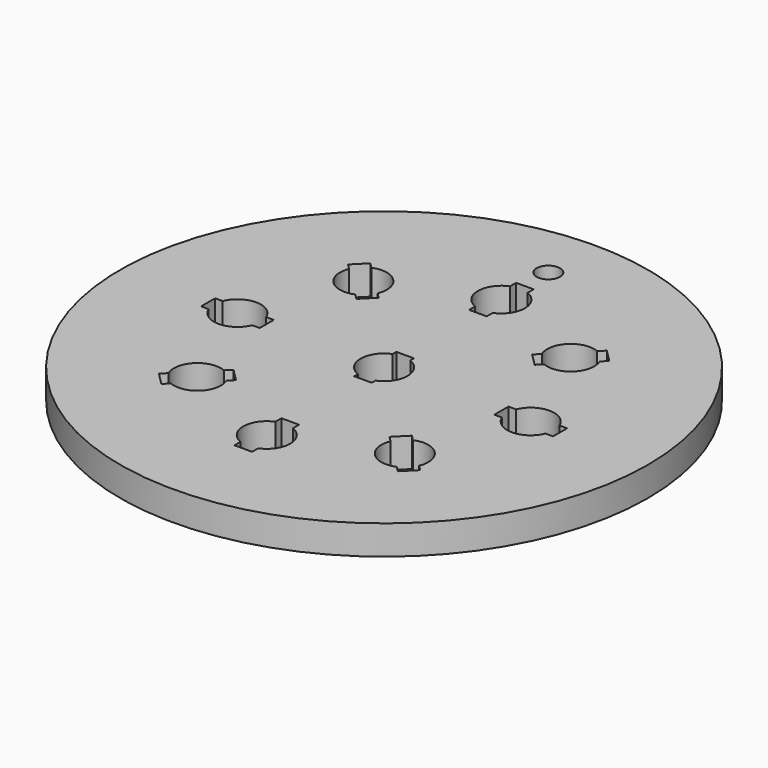
from build123d import *

# Parameters (mm, degrees)
F0_R     = 45
F0_R_2   = 2
F1_DEPTH = 2.5


with BuildPart() as f1:
    # F0 (on Top) → F1 (new body, symmetric)
    with BuildSketch(Plane.XY):
        Circle(F0_R)
        with BuildLine():
            Line((-15.202796, -13.081475), (-13.081475, -15.202796))
            Line((-13.081475, -15.202796), (-13.994987, -16.116308))
            ThreePointArc((-13.994987, -16.116308), (-13.757802, -16.881029), (-13.67767, -17.67767))
            ThreePointArc((-13.67767, -17.67767), (-15.469214, -21.012744), (-19.239031, -21.360352))
            Line((-19.239031, -21.360352), (-20.152543, -22.273864))
            Line((-20.152543, -22.273864), (-22.273864, -20.152543))
            Line((-22.273864, -20.152543), (-21.360352, -19.239031))
            ThreePointArc((-21.360352, -19.239031), (-20.506097, -14.849242), (-16.116308, -13.994987))
            Line((-16.116308, -13.994987), (-15.202796, -13.081475))
        make_face(mode=Mode.SUBTRACT)
        with BuildLine():
            ThreePointArc((1.5, -21.291901), (3.316625, -22.763932), (4, -25))
            ThreePointArc((4, -25), (3.316625, -27.236068), (1.5, -28.708099))
            Line((1.5, -28.708099), (1.5, -30))
            Line((1.5, -30), (-1.5, -30))
            Line((-1.5, -30), (-1.5, -28.708099))
            ThreePointArc((-1.5, -28.708099), (-4, -25), (-1.5, -21.291901))
            Line((-1.5, -21.291901), (-1.5, -20))
            Line((-1.5, -20), (1.5, -20))
            Line((1.5, -20), (1.5, -21.291901))
        make_face(mode=Mode.SUBTRACT)
        with BuildLine():
            Line((13.081475, -15.202796), (15.202796, -13.081475))
            Line((15.202796, -13.081475), (16.116308, -13.994987))
            ThreePointArc((16.116308, -13.994987), (19.886125, -14.342595), (21.67767, -17.67767))
            ThreePointArc((21.67767, -17.67767), (21.597537, -18.47431), (21.360352, -19.239031))
            Line((21.360352, -19.239031), (22.273864, -20.152543))
            Line((22.273864, -20.152543), (20.152543, -22.273864))
            Line((20.152543, -22.273864), (19.239031, -21.360352))
            ThreePointArc((19.239031, -21.360352), (14.849242, -20.506097), (13.994987, -16.116308))
            Line((13.994987, -16.116308), (13.081475, -15.202796))
        make_face(mode=Mode.SUBTRACT)
        with BuildLine():
            Line((-20, 1.5), (-20, -1.5))
            Line((-20, -1.5), (-21.291901, -1.5))
            ThreePointArc((-21.291901, -1.5), (-25, -4), (-28.708099, -1.5))
            Line((-28.708099, -1.5), (-30, -1.5))
            Line((-30, -1.5), (-30, 1.5))
            Line((-30, 1.5), (-28.708099, 1.5))
            ThreePointArc((-28.708099, 1.5), (-25, 4), (-21.291901, 1.5))
            Line((-21.291901, 1.5), (-20, 1.5))
        make_face(mode=Mode.SUBTRACT)
        with BuildLine():
            Line((-13.081475, 15.202796), (-15.202796, 13.081475))
            Line((-15.202796, 13.081475), (-16.116308, 13.994987))
            ThreePointArc((-16.116308, 13.994987), (-20.506097, 14.849242), (-21.360352, 19.239031))
            Line((-21.360352, 19.239031), (-22.273864, 20.152543))
            Line((-22.273864, 20.152543), (-20.152543, 22.273864))
            Line((-20.152543, 22.273864), (-19.239031, 21.360352))
            ThreePointArc((-19.239031, 21.360352), (-15.469214, 21.012744), (-13.67767, 17.67767))
            ThreePointArc((-13.67767, 17.67767), (-13.757802, 16.881029), (-13.994987, 16.116308))
            Line((-13.994987, 16.116308), (-13.081475, 15.202796))
        make_face(mode=Mode.SUBTRACT)
        with BuildLine():
            ThreePointArc((1.5, 3.708099), (3.316625, 2.236068), (4, 0))
            ThreePointArc((4, 0), (3.316625, -2.236068), (1.5, -3.708099))
            Line((1.5, -3.708099), (1.5, -4.5))
            Line((1.5, -4.5), (-1.5, -4.5))
            Line((-1.5, -4.5), (-1.5, -3.708099))
            ThreePointArc((-1.5, -3.708099), (-4, 0), (-1.5, 3.708099))
            Line((-1.5, 3.708099), (-1.5, 4.5))
            Line((-1.5, 4.5), (1.5, 4.5))
            Line((1.5, 4.5), (1.5, 3.708099))
        make_face(mode=Mode.SUBTRACT)
        with BuildLine():
            Line((15.202796, 13.081475), (13.081475, 15.202796))
            Line((13.081475, 15.202796), (13.994987, 16.116308))
            ThreePointArc((13.994987, 16.116308), (14.849242, 20.506097), (19.239031, 21.360352))
            Line((19.239031, 21.360352), (20.152543, 22.273864))
            Line((20.152543, 22.273864), (22.273864, 20.152543))
            Line((22.273864, 20.152543), (21.360352, 19.239031))
            ThreePointArc((21.360352, 19.239031), (21.597537, 18.47431), (21.67767, 17.67767))
            ThreePointArc((21.67767, 17.67767), (19.886125, 14.342595), (16.116308, 13.994987))
            Line((16.116308, 13.994987), (15.202796, 13.081475))
        make_face(mode=Mode.SUBTRACT)
        with BuildLine():
            Line((20, -1.5), (20, 1.5))
            Line((20, 1.5), (21.291901, 1.5))
            ThreePointArc((21.291901, 1.5), (25, 4), (28.708099, 1.5))
            Line((28.708099, 1.5), (30, 1.5))
            Line((30, 1.5), (30, -1.5))
            Line((30, -1.5), (28.708099, -1.5))
            ThreePointArc((28.708099, -1.5), (25, -4), (21.291901, -1.5))
            Line((21.291901, -1.5), (20, -1.5))
        make_face(mode=Mode.SUBTRACT)
        with BuildLine():
            Line((1.5, 20), (-1.5, 20))
            Line((-1.5, 20), (-1.5, 21.291901))
            ThreePointArc((-1.5, 21.291901), (-4, 25), (-1.5, 28.708099))
            Line((-1.5, 28.708099), (-1.5, 30))
            Line((-1.5, 30), (1.5, 30))
            Line((1.5, 30), (1.5, 28.708099))
            ThreePointArc((1.5, 28.708099), (3.316625, 27.236068), (4, 25))
            ThreePointArc((4, 25), (3.316625, 22.763932), (1.5, 21.291901))
            Line((1.5, 21.291901), (1.5, 20))
        make_face(mode=Mode.SUBTRACT)
        with Locations((0, 35)):
            Circle(F0_R_2, mode=Mode.SUBTRACT)
    extrude(amount=F1_DEPTH, both=True)


solid = f1.part
